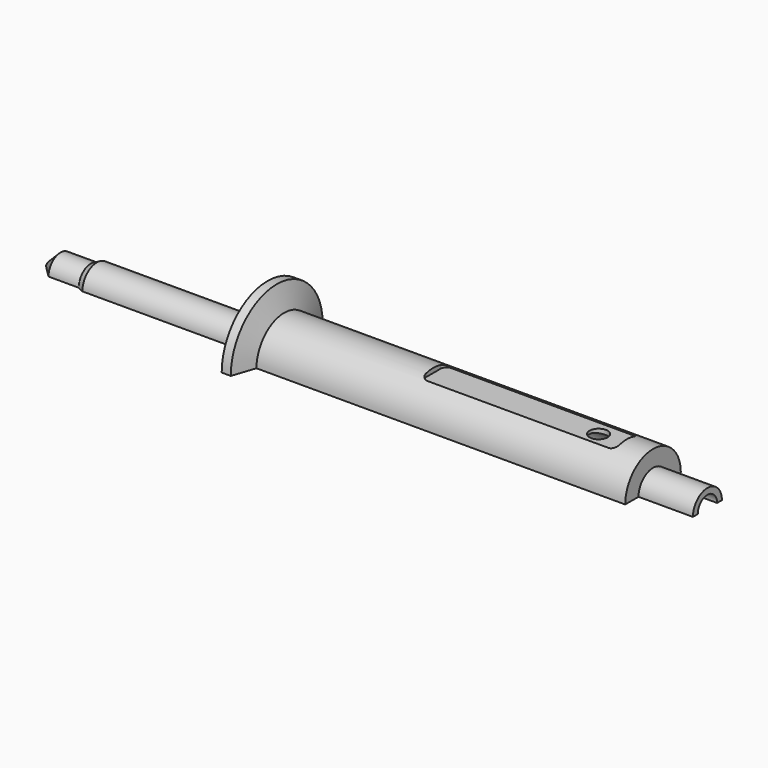
from build123d import *

# Parameters (mm, degrees)
SKETCH005_W      = 32
SKETCH005_H      = 5
PAD002_DEPTH     = 10
FILLET_R         = 1
FILLET001_R      = 1
FILLET002_R      = 1
FILLET003_R      = 1
REVOLUTION_ANGLE = 180
SKETCH006_R      = 1.5
POCKET_DEPTH     = 5
FILLET004_R      = 2


with BuildPart() as obj1:
    # Sketch005 → Pad002 (new body)
    with BuildSketch(Plane.XY):
        with Locations((45, 0)):
            Rectangle(SKETCH005_W, SKETCH005_H)
    extrude(amount=PAD002_DEPTH)

    # Fillet
    fillet_edges = [obj1.edges().sort_by_distance(p)[0] for p in [
        (29, -2.5, 5),
    ]]
    fillet(fillet_edges, radius=FILLET_R)

    # Fillet001
    fillet001_edges = [obj1.edges().sort_by_distance(p)[0] for p in [
        (29, 2.5, 5),
    ]]
    fillet(fillet001_edges, radius=FILLET001_R)

    # Fillet002
    fillet002_edges = [obj1.edges().sort_by_distance(p)[0] for p in [
        (61, -2.5, 5),
    ]]
    fillet(fillet002_edges, radius=FILLET002_R)

    # Fillet003
    fillet003_edges = [obj1.edges().sort_by_distance(p)[0] for p in [
        (61, 2.5, 5),
    ]]
    fillet(fillet003_edges, radius=FILLET003_R)


with BuildPart() as obj1_1:
    # Body006 placement: moved
    add(obj1.part.moved(Location((0, 0, 5))))


with BuildPart() as half:
    # Sketch → Revolution (revolve)
    with BuildSketch(Plane.XY):
        Polygon((-34.657143, 0.5), (-32.657143, 2.5), (-27.657143, 2.5), (-26.657143, 3), (0.342857, 3), (1.592857, 9.5), (3.092857, 9.5), (4.342857, 5.75), (65.342857, 5.75), (65.342857, 3), (74.342857, 3), (74.342857, 2), (64.342857, 2), (64.342857, 4.5), (2.842015, 4.5), (2.842015, 3.942434), (2.64252, 3.942434), (2.64252, 3), (3.894188, 3), (3.894188, 1.75), (-24.320252, 1.75), (-26.820252, 0.5), align=None)
    revolve(axis=Axis((0, 0, 0), (1, 0, 0)), revolution_arc=REVOLUTION_ANGLE)

    # Boolean002: cut obj1
    add(obj1_1.part, mode=Mode.SUBTRACT)

    # Sketch006 (on Face33 of Boolean002) → Pocket (cut)
    with BuildSketch(Plane.XY.offset(5)):
        with Locations((56.342857, 0)):
            Circle(SKETCH006_R)
    extrude(amount=-POCKET_DEPTH, mode=Mode.SUBTRACT)

    # Fillet004
    fillet004_edges = [half.edges().sort_by_distance(p)[0] for p in [
        (0.342857, 0, 3),
    ]]
    fillet(fillet004_edges, radius=FILLET004_R)


solid = half.part
